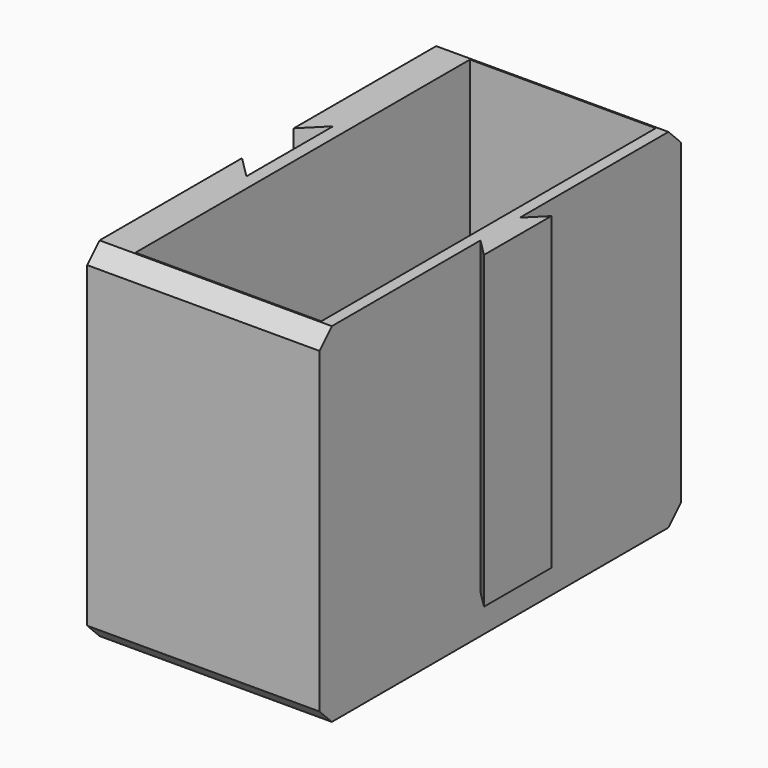
from build123d import *

# Parameters (mm, degrees)
F1_DEPTH = 40
F0_W     = 0.5
F0_H     = 12
F0_W_2   = 11.5
F0_W_3   = 12
F0_H_2   = 0.5
F0_H_3   = 14.25
F2_DEPTH = 5
F3_SIZE  = 2
F5_DEPTH = 0.5


with BuildPart() as f1:
    # F0 (on Top) → F1 (new body)
    with BuildSketch(Plane.XY):
        Polygon((17.2627416998, 5.4343145751), (15, 3.1715728753), (15, -3.1715728753), (17.2627416998, -5.4343145751), (17.2627416998, -0.5656854249), (17.2627416998, 0.5656854249), align=None)
        Polygon((-15, 29.1715728753), (-15, 4.1715728753), (-12.1715728752, 7), (-12.1715728752, 0), (-12.1715728752, -7), (-15, -4.1715728753), (-15, -29.1715728753), (15, -29.1715728753), (15, -3.1715728753), (15, 3.1715728753), (15, 29.1715728753), align=None)
        Polygon((-10.4999961331, 14.999999851), (-10.4999961331, 26.999999851), (1.5000038669, 26.999999851), (2.0000038669, 26.999999851), (13.5000038669, 26.999999851), (13.5000038669, 14.999999851), (13.5000038669, 14.499999851), (13.5000038669, 0.249999851), (13.5000038669, -0.250000149), (13.5000038669, -14.500000149), (13.5000038669, -15.000000149), (13.5000038669, -27.000000149), (2.0000038669, -27.000000149), (1.5000038669, -27.000000149), (-10.4999961331, -27.000000149), (-10.4999961331, -15.000000149), (-10.4999961331, -14.500000149), (-10.4999961331, -0.250000149), (-10.4999961331, 0.249999851), (-10.4999961331, 14.499999851), align=None, mode=Mode.SUBTRACT)
    extrude(amount=F1_DEPTH)

    # F0 (on Top) → F2 (join)
    with BuildSketch(Plane.XY):
        Polygon((-15, 29.1715728753), (-15, 4.1715728753), (-12.1715728752, 7), (-12.1715728752, 0), (-12.1715728752, -7), (-15, -4.1715728753), (-15, -29.1715728753), (15, -29.1715728753), (15, -3.1715728753), (15, 3.1715728753), (15, 29.1715728753), align=None)
        Polygon((-10.4999961331, 14.999999851), (-10.4999961331, 26.999999851), (1.5000038669, 26.999999851), (2.0000038669, 26.999999851), (13.5000038669, 26.999999851), (13.5000038669, 14.999999851), (13.5000038669, 14.499999851), (13.5000038669, 0.249999851), (13.5000038669, -0.250000149), (13.5000038669, -14.500000149), (13.5000038669, -15.000000149), (13.5000038669, -27.000000149), (2.0000038669, -27.000000149), (1.5000038669, -27.000000149), (-10.4999961331, -27.000000149), (-10.4999961331, -15.000000149), (-10.4999961331, -14.500000149), (-10.4999961331, -0.250000149), (-10.4999961331, 0.249999851), (-10.4999961331, 14.499999851), align=None, mode=Mode.SUBTRACT)
        Polygon((-12.1715728752, 7), (-15, 4.1715728753), (-15, -4.1715728753), (-12.1715728752, -7), (-12.1715728752, 0), align=None)
        with Locations((1.7500038669, -21.000000149)):
            Rectangle(F0_W, F0_H)
        with Locations((7.7500038669, -21.000000149)):
            Rectangle(F0_W_2, F0_H)
        with Locations((-4.4999961331, -21.000000149)):
            Rectangle(F0_W_3, F0_H)
        with Locations((-4.4999961331, -14.750000149)):
            Rectangle(F0_W_3, F0_H_2)
        with Locations((1.7500038669, -14.750000149)):
            Rectangle(F0_W, F0_H_2)
        with Locations((1.7500038669, -7.375000149)):
            Rectangle(F0_W, F0_H_3)
        with Locations((-4.4999961331, -7.375000149)):
            Rectangle(F0_W_3, F0_H_3)
        with Locations((7.7500038669, -7.375000149)):
            Rectangle(F0_W_2, F0_H_3)
        with Locations((7.7500038669, 7.374999851)):
            Rectangle(F0_W_2, F0_H_3)
        with Locations((-4.4999961331, 7.374999851)):
            Rectangle(F0_W_3, F0_H_3)
        with Locations((1.7500038669, -1.49e-07)):
            Rectangle(F0_W, F0_H_2)
        with Locations((1.7500038669, 7.374999851)):
            Rectangle(F0_W, F0_H_3)
        with Locations((7.7500038669, 14.749999851)):
            Rectangle(F0_W_2, F0_H_2)
        with Locations((1.7500038669, 14.749999851)):
            Rectangle(F0_W, F0_H_2)
        with Locations((-4.4999961331, 14.749999851)):
            Rectangle(F0_W_3, F0_H_2)
        with Locations((-4.4999961331, 20.999999851)):
            Rectangle(F0_W_3, F0_H)
        with Locations((7.7500038669, 20.999999851)):
            Rectangle(F0_W_2, F0_H)
        with Locations((1.7500038669, 20.999999851)):
            Rectangle(F0_W, F0_H)
        with Locations((-4.4999961331, -1.49e-07)):
            Rectangle(F0_W_3, F0_H_2)
        with Locations((7.7500038669, -1.49e-07)):
            Rectangle(F0_W_2, F0_H_2)
        with Locations((7.7500038669, -14.750000149)):
            Rectangle(F0_W_2, F0_H_2)
    extrude(amount=-F2_DEPTH)

    # F3
    f3_edges = [f1.edges().sort_by_distance(p)[0] for p in [
        (0, -29.171573, -5),
        (0, 29.171573, -5),
        (0, -29.171573, 40),
        (0, 29.171573, 40),
    ]]
    chamfer(f3_edges, length=F3_SIZE)

    # F4 (on face) → F5 (cut)
    with BuildSketch(Plane(origin=(-12.1715728752, 0, 0), x_dir=(0, -1, 0), z_dir=(-1, 0, 0))):
        with BuildLine():
            Line((0.12, 10.25), (0.12, 10.5))
            ThreePointArc((0.12, 10.5), (-1.8790989856, 8.5600270426), (0, 6.5036032458))
            Line((0, 6.5036032458), (0, 6.7541191335))
            ThreePointArc((0, 6.7541191335), (-1.6289699135, 8.5600353381), (0.12, 10.25))
        make_face()
        with BuildLine():
            Line((0, 8.5), (0, 6.7541191335))
            ThreePointArc((0, 6.7541191335), (0.1250128042, 6.7500071795), (0.25, 6.7548352513))
            Line((0.25, 6.7548352513), (0.25, 8.25))
            Line((0.25, 8.25), (1.8520508076, 8.25))
            ThreePointArc((1.8520508076, 8.25), (1.865506934, 8.3746782406), (1.87, 8.5))
            Line((1.87, 8.5), (0, 8.5))
        make_face()
        with BuildLine():
            Line((0.25, 6.7548352513), (0.25, 6.5042294721))
            ThreePointArc((0.25, 6.5042294721), (1.5794519519, 7.1325205669), (2.12, 8.5))
            Line((2.12, 8.5), (1.87, 8.5))
            ThreePointArc((1.87, 8.5), (1.865506934, 8.3746782406), (1.8520508076, 8.25))
            ThreePointArc((1.8520508076, 8.25), (1.3140216535, 7.2206203491), (0.25, 6.7548352513))
        make_face()
        with BuildLine():
            Line((0, 6.7541191335), (0, 6.5036032458))
            ThreePointArc((0, 6.5036032458), (0.1250097944, 6.5000062745), (0.25, 6.5042294721))
            Line((0.25, 6.5042294721), (0.25, 6.7548352513))
            ThreePointArc((0.25, 6.7548352513), (0.1250128042, 6.7500071795), (0, 6.7541191335))
        make_face()
        with BuildLine():
            ThreePointArc((0.25, 6.5042294721), (0.1250097944, 6.5000062745), (0, 6.5036032458))
            Line((0, 6.5036032458), (0, 5))
            Line((0, 5), (0.25, 5))
            Line((0.25, 5), (0.25, 6.5042294721))
        make_face()
    extrude(amount=-F5_DEPTH, mode=Mode.SUBTRACT)


solid = f1.part
